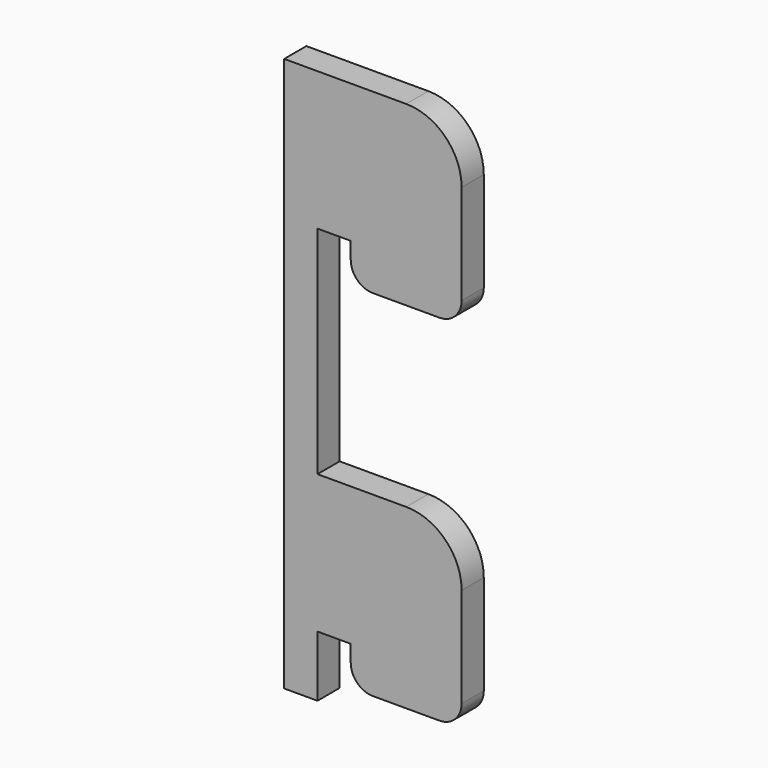
from build123d import *

# Parameters (mm, degrees)
F1_W     = 3
F1_H     = 12.5
F2_DEPTH = 1.25


with BuildPart() as f2:
    # F1 (on Front) → F2 (new body, symmetric)
    with BuildSketch(Plane.XZ):
        Polygon((3, 50), (0, 50), (0, 0), (3, 0), (3, 5.5), (3, 18), (3, 37.5), align=None)
        with Locations((4.5, 43.75)):
            Rectangle(F1_W, F1_H)
        with BuildLine():
            Line((11, 50), (6, 50))
            Line((6, 50), (6, 37.5))
            Line((6, 37.5), (6, 36))
            ThreePointArc((6, 36), (6.5857864376, 34.5857864376), (8, 34))
            Line((8, 34), (14, 34))
            ThreePointArc((14, 34), (15.4142135624, 34.5857864376), (16, 36))
            Line((16, 36), (16, 45))
            ThreePointArc((16, 45), (14.5355339059, 48.5355339059), (11, 50))
        make_face()
        with Locations((4.5, 11.75)):
            Rectangle(F1_W, F1_H)
        with BuildLine():
            Line((11, 18), (6, 18))
            Line((6, 18), (6, 5.5))
            Line((6, 5.5), (6, 4))
            ThreePointArc((6, 4), (6.5857864376, 2.5857864376), (8, 2))
            Line((8, 2), (14, 2))
            ThreePointArc((14, 2), (15.4142135624, 2.5857864376), (16, 4))
            Line((16, 4), (16, 13))
            ThreePointArc((16, 13), (14.5355339059, 16.5355339059), (11, 18))
        make_face()
    extrude(amount=F2_DEPTH, both=True)


solid = f2.part
